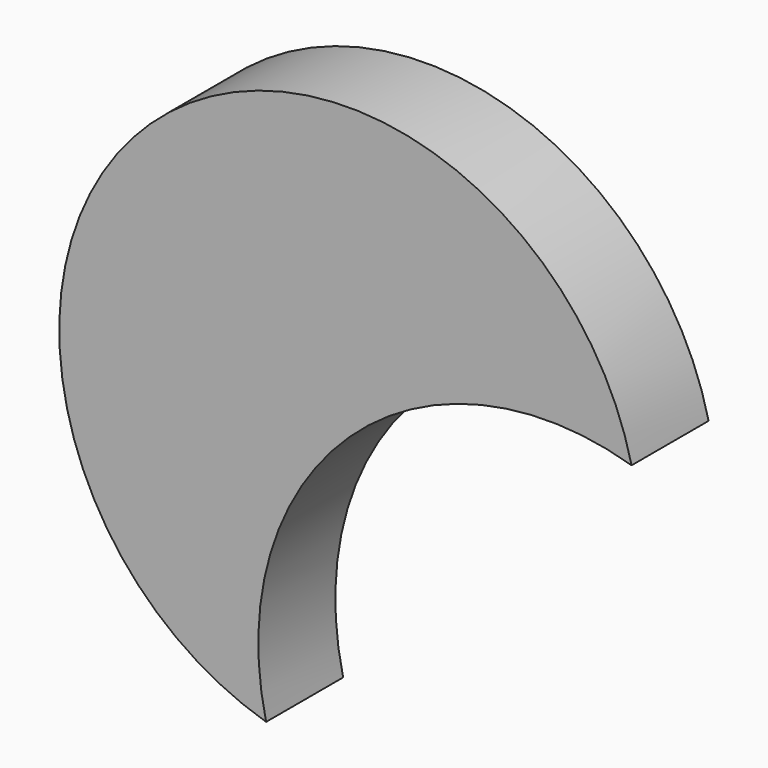
from build123d import *

# Parameters (mm, degrees)
F1_DEPTH = 25.4


with BuildPart() as f1:
    # F0 (on Front) → F1 (new body)
    with BuildSketch(Plane.XZ):
        with BuildLine():
            ThreePointArc((-74.460426, -17.639566), (-52.506525, 55.664837), (21.953901, 73.304403))
            ThreePointArc((21.953901, 73.304403), (-105.01305, 111.329675), (-74.460426, -17.639566))
        make_face()
    extrude(amount=-F1_DEPTH)


solid = f1.part
